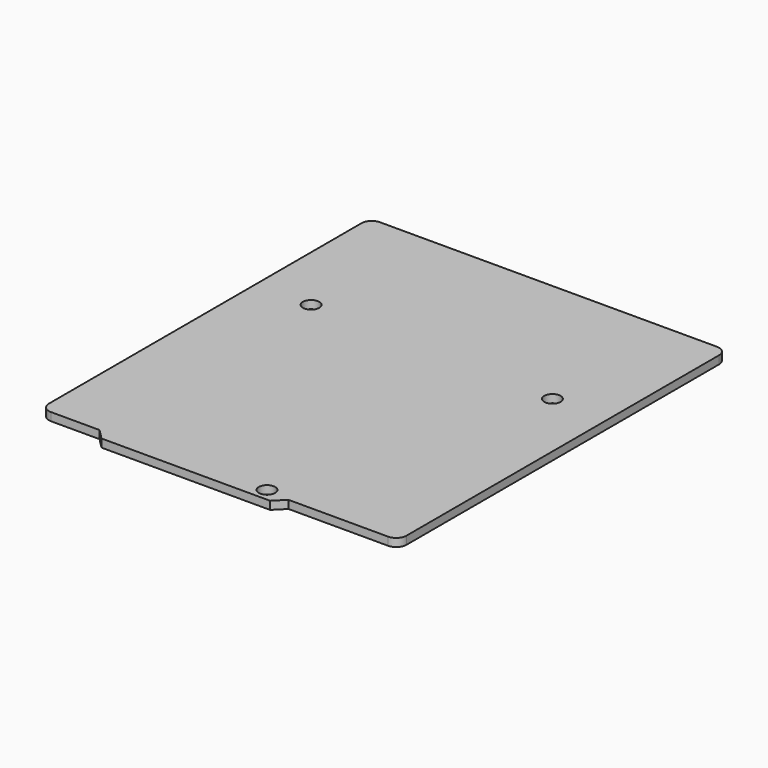
from build123d import *

# Parameters (mm, degrees)
F1_DEPTH = 1.58
F2_R     = 2
F3_D     = 3.2


with BuildPart() as f1:
    # F0 (on Top) → F1 (new body)
    with BuildSketch(Plane.XY):
        Polygon((13.5, -40.25), (35, -40.25), (35, 40.25), (-35, 40.25), (-35, -40.25), (-23.5, -40.25), (-21.5, -42.25), (11.5, -42.25), align=None)
    extrude(amount=F1_DEPTH)

    # F2
    f2_edges = [f1.edges().sort_by_distance(p)[0] for p in [
        (-35, 40.25, 0.79),
        (35, 40.25, 0.79),
        (-35, -40.25, 0.79),
        (35, -40.25, 0.79),
    ]]
    fillet(f2_edges, radius=F2_R)

    # F3 (through all)
    with Locations(Plane(origin=(0, 0, 0), x_dir=(1, 0, 0), z_dir=(0, 0, -1))):
        with Locations((-24.13, -12.32), (24.13, -11.05), (8.89, 39.75)):
            Hole(F3_D / 2)


solid = f1.part
